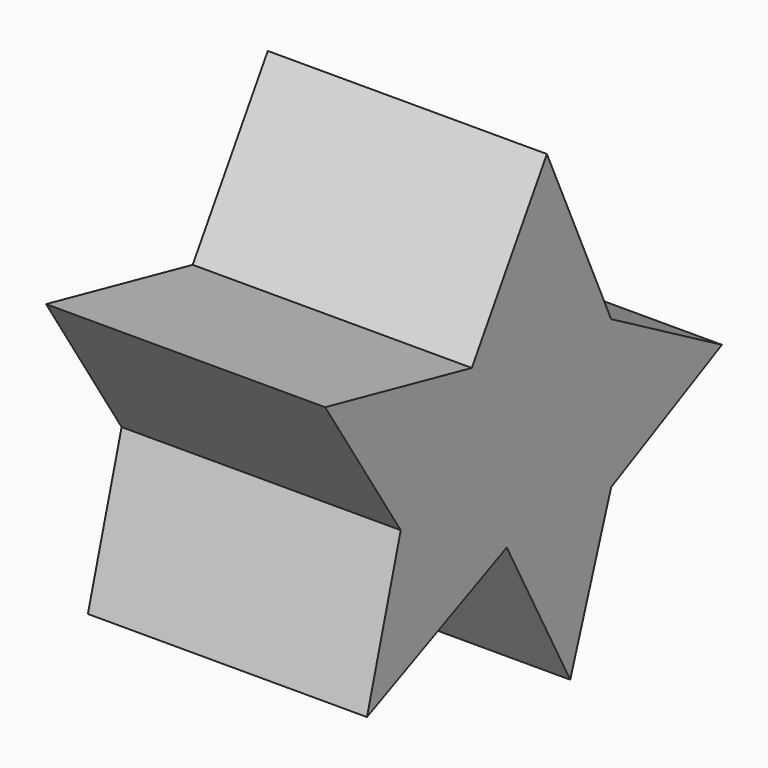
from build123d import *

# Parameters (mm, degrees)
F1_DEPTH = 50.8


with BuildPart() as f1:
    # F0 (on Right) → F1 (new body)
    with BuildSketch(Plane.YZ):
        Polygon((-17.18284, 26.68895), (0, 0), (-7.676735, -26.822139), (24.120701, -12.575924), (38.56099, -39.633226), (47.8677, -12.575924), (73.072203, 0), (47.8677, 14.362787), (33.256661, 46.754193), (16.170893, 19.428756), align=None)
    extrude(amount=-F1_DEPTH)


solid = f1.part
